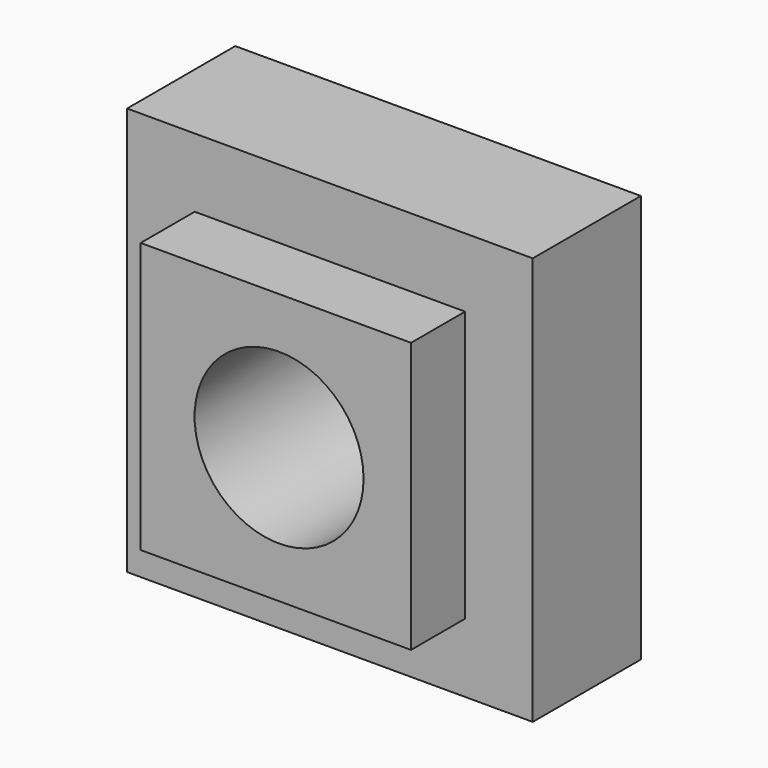
from build123d import *

# Parameters (mm, degrees)
F0_W     = 101.6
F0_H     = 101.6
F0_R     = 31.75
F1_DEPTH = 76.2
F0_W_2   = 152.435244
F0_H_2   = 153.360202
F2_DEPTH = 50.8


with BuildPart() as f1:
    # F0 (on Front) → F1 (new body)
    with BuildSketch(Plane.XZ):
        Rectangle(F0_W, F0_H)
        with Locations((1.207987, 0)):
            Circle(F0_R, mode=Mode.SUBTRACT)
    extrude(amount=F1_DEPTH)

    # F0 (on Front) → F2 (join)
    with BuildSketch(Plane.XZ):
        Rectangle(F0_W_2, F0_H_2)
        Rectangle(F0_W, F0_H, mode=Mode.SUBTRACT)
    extrude(amount=F2_DEPTH)


solid = f1.part
